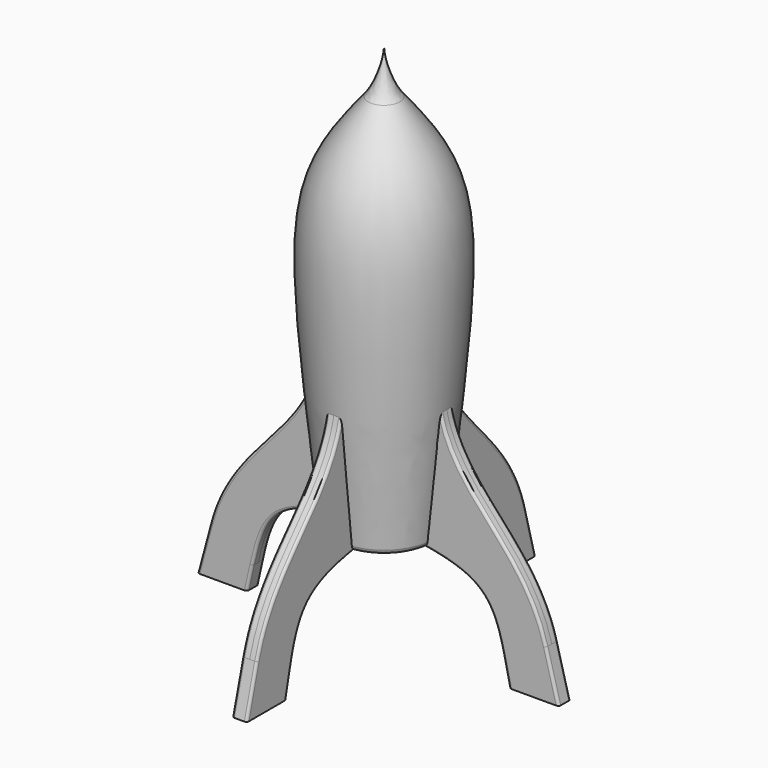
from build123d import *

# Parameters (mm, degrees)
F3_DEPTH = 1.5
F4_R     = 0.5
F5_COUNT = 2
F5_ANGLE = 90
F6_R     = 1


with BuildPart() as f1:
    # F0 (on Front) → F1 (revolve)
    with BuildSketch(Plane.XZ):
        with BuildLine():
            add(Edge.make_bspline(
                [(-10, 0), (-16.16013, 55.888996), (-16.582202, 59.718327), (-3.184098, 76.144936)],
                knots=[0, 0, 0, 0, 75.098582, 75.098582, 75.098582, 75.098582], degree=3))
            Line((-10, 0), (0, 0))
            Line((0, 0), (0, 80))
            add(Edge.make_bspline(
                [(-3.184098, 76.144936), (-2.198579, 77.353221), (-1.138286, 78.629665), (0, 80)],
                knots=[75.098582, 75.098582, 75.098582, 75.098582, 80.622577, 80.622577, 80.622577, 80.622577], degree=3))
        make_face()
        with BuildLine():
            add(Edge.make_bspline(
                [(-3.184098, 76.144936), (-1.3, 78.480132), (0, 83), (0, 85)],
                knots=[0, 0, 0, 0, 9.410135, 9.410135, 9.410135, 9.410135], degree=3))
            add(Edge.make_bspline(
                [(-3.184098, 76.144936), (-2.198579, 77.353221), (-1.138286, 78.629665), (0, 80)],
                knots=[75.098582, 75.098582, 75.098582, 75.098582, 80.622577, 80.622577, 80.622577, 80.622577], degree=3))
            Line((0, 80), (0, 85))
        make_face()
    revolve(axis=Axis((0, 0, 40), (0, 0, -1)))

    # F6
    f6_edges = [f1.edges().sort_by_distance(p)[0] for p in [
        (10, 0, 0),
    ]]
    fillet(f6_edges, radius=F6_R)


with BuildPart() as f3:
    # F2 (on Front) → F3 (new body, symmetric)
    with BuildSketch(Plane.XZ):
        with BuildLine():
            add(Edge.make_bspline(
                [(-9, 0), (-21, -2), (-23.142136, -5), (-25.312365, -14.761665)],
                knots=[0, 0, 0, 0, 22, 22, 22, 22], degree=3))
            Line((-9, 0), (-12.638471, 24.650822))
            add(Edge.make_bspline(
                [(-33.809289, -9.983239), (-29.538775, 5.954537), (-15.538775, 10.954537), (-12.638471, 24.650822)],
                knots=[0, 0, 0, 0, 40.592139, 40.592139, 40.592139, 40.592139], degree=3))
            Line((-33.809289, -9.983239), (-36.397479, -19.642498))
            Line((-36.397479, -19.642498), (-26.397479, -19.642498))
            Line((-26.397479, -19.642498), (-25.312365, -14.761665))
        make_face()
        with BuildLine():
            add(Edge.make_bspline(
                [(9, 0), (21, -2), (23.142136, -5), (25.312365, -14.761665)],
                knots=[0, 0, 0, 0, 22, 22, 22, 22], degree=3))
            Line((25.312365, -14.761665), (26.397479, -19.642498))
            Line((26.397479, -19.642498), (36.397479, -19.642498))
            Line((36.397479, -19.642498), (33.809289, -9.983239))
            add(Edge.make_bspline(
                [(33.809289, -9.983239), (29.538775, 5.954537), (15.538775, 10.954537), (12.638471, 24.650822)],
                knots=[0, 0, 0, 0, 40.592139, 40.592139, 40.592139, 40.592139], degree=3))
            Line((12.638471, 24.650822), (9, 0))
        make_face()
    extrude(amount=F3_DEPTH, both=True)

    # F4
    f4_edges = [f3.edges().sort_by_distance(p)[0] for p in [
        (23.354709, 1.5, 7.446635),
        (35.103384, 1.5, -14.812869),
        (20.299047, 1.5, -3.984226),
        (25.854922, 1.5, -17.202081),
        (35.103384, -1.5, -14.812869),
        (23.354709, -1.5, 7.446635),
        (20.299047, -1.5, -3.984226),
        (25.854922, -1.5, -17.202081),
        (-25.854922, -1.5, -17.202081),
        (-20.299047, -1.5, -3.984226),
        (-20.299047, 1.5, -3.984226),
        (-25.854922, 1.5, -17.202081),
        (-35.103384, -1.5, -14.812869),
        (-23.354709, -1.5, 7.446635),
        (-35.103384, 1.5, -14.812869),
        (-23.354709, 1.5, 7.446635),
    ]]
    fillet(f4_edges, radius=F4_R)


with BuildPart() as f5_1:
    # F5: instance of F3
    add(f3.part.rotate(Axis((0, 0, 40), (0, 0, -1)), 1 * F5_ANGLE / (F5_COUNT - 1)))


solid = Compound([f1.part, f3.part, f5_1.part])
